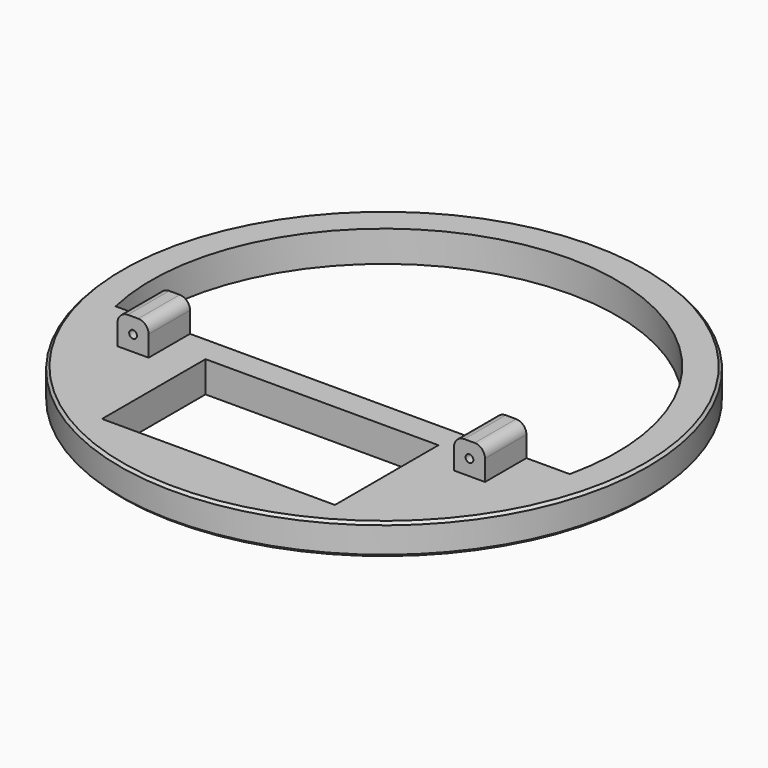
from build123d import *

# Parameters (mm, degrees)
F0_R     = 51
F0_W     = 45
F0_H     = 25
F1_DEPTH = 6
F2_W     = 6
F2_H     = 10
F3_DEPTH = 6
F5_R     = 2
F6_D     = 1.5
F8_SIZE  = 0.5


with BuildPart() as f1:
    # F0 (on Top) → F1 (new body)
    with BuildSketch(Plane.XY):
        Circle(F0_R)
        with Locations((0, -27.5)):
            Rectangle(F0_W, F0_H, mode=Mode.SUBTRACT)
        with BuildLine():
            Line((43.874821937, -10), (-43.874821937, -10))
            ThreePointArc((-43.874821937, -10), (0, 45), (43.874821937, -10))
        make_face(mode=Mode.SUBTRACT)
    extrude(amount=F1_DEPTH)

    # F2 (on face) → F3 (join)
    with BuildSketch(Plane.XY.offset(6)):
        with Locations((-32.5, -15)):
            Rectangle(F2_W, F2_H)
    extrude(amount=F3_DEPTH)

    # F5
    f5_edges = [f1.edges().sort_by_distance(p)[0] for p in [
        (-29.5, -15, 12),
        (-35.5, -15, 12),
    ]]
    fillet(f5_edges, radius=F5_R)

    # F6 (through all)
    with Locations(Plane(origin=(0, -10, 0), x_dir=(-1, 0, 0), z_dir=(0, 1, 0))):
        with Locations((32.5, 9)):
            Hole(F6_D / 2)

    # F7: F1 across plane


with BuildPart() as f1_1:
    add(f1.part)
    add(f1.part.mirror(Plane.YZ))

    # F8
    f8_edges = [f1_1.edges().sort_by_distance(p)[0] for p in [
        (-51, 0, 6),
        (-51, 0, 0),
    ]]
    chamfer(f8_edges, length=F8_SIZE)


solid = f1_1.part
